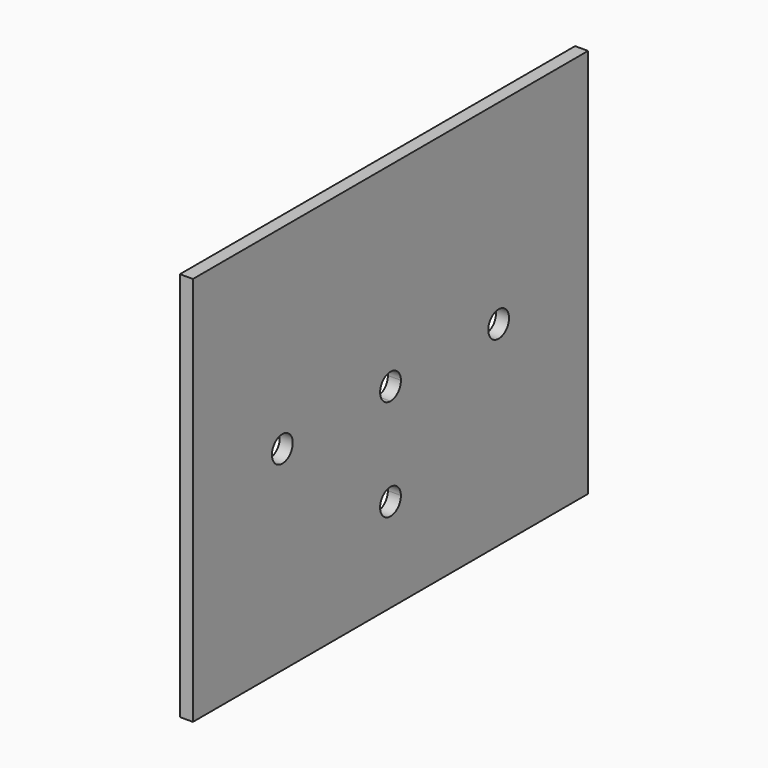
from build123d import *

# Parameters (mm, degrees)
F1_DEPTH = 5


with BuildPart() as f1:
    # F0 (on Right) → F1 (new body)
    with BuildSketch(Plane.YZ):
        Polygon((-95, -75), (95, -75), (95, 75), (-95, 75), (-95, 0), align=None)
        with BuildLine():
            ThreePointArc((5, -39), (-3.535534, -42.535534), (0, -34))
            ThreePointArc((0, -34), (3.535534, -35.464466), (5, -39))
        make_face(mode=Mode.SUBTRACT)
        with BuildLine():
            ThreePointArc((-47, 0), (-52, -5), (-57, 0))
            ThreePointArc((-57, 0), (-52, 5), (-47, 0))
        make_face(mode=Mode.SUBTRACT)
        with BuildLine():
            ThreePointArc((0, -5), (-3.535534, -3.535534), (-5, 0))
            ThreePointArc((-5, 0), (0, 5), (5, 0))
            ThreePointArc((5, 0), (3.535534, -3.535534), (0, -5))
        make_face(mode=Mode.SUBTRACT)
        with BuildLine():
            ThreePointArc((57, 0), (52, -5), (47, 0))
            ThreePointArc((47, 0), (52, 5), (57, 0))
        make_face(mode=Mode.SUBTRACT)
    extrude(amount=F1_DEPTH)


solid = f1.part
